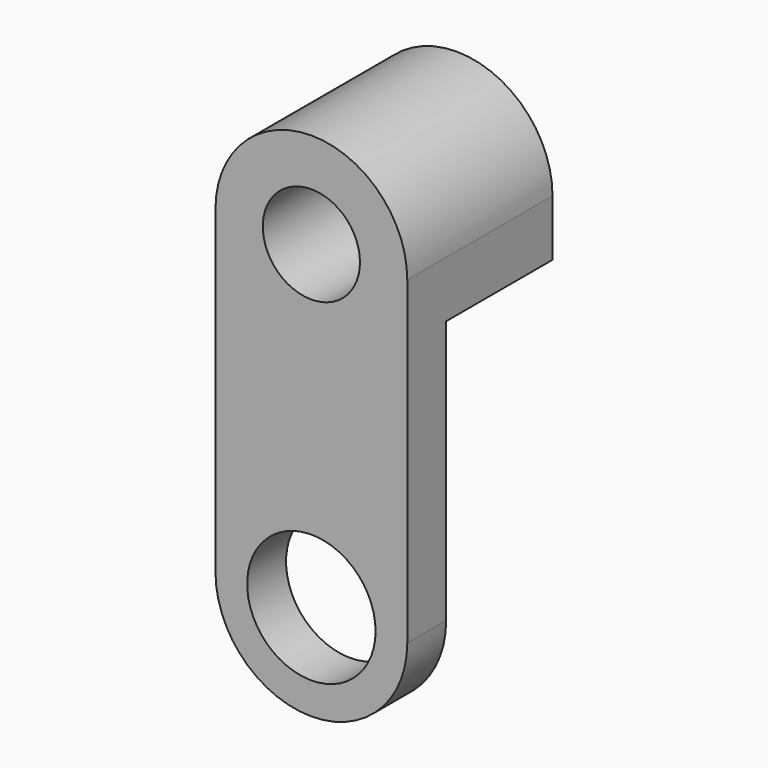
from build123d import *

# Parameters (mm, degrees)
F0_R     = 2.413
F0_R_2   = 3.1877
F1_DEPTH = 9.017
F2_W     = 16.336124
F2_H     = 18.51942
F3_DEPTH = 9.526


with BuildPart() as f1:
    # F0 (on Front) → F1 (new body)
    with BuildSketch(Plane.XZ):
        with BuildLine():
            ThreePointArc((-4.7625, 0), (0, -4.7625), (4.7625, 0))
            ThreePointArc((4.7625, 0), (0, 4.7625), (-4.7625, 0))
        make_face()
        Circle(F0_R, mode=Mode.SUBTRACT)
        with BuildLine():
            Line((4.7625, -15.875), (4.7625, 0))
            ThreePointArc((4.7625, 0), (0, -4.7625), (-4.7625, 0))
            Line((-4.7625, 0), (-4.7625, -15.875))
            ThreePointArc((-4.7625, -15.875), (0, -11.1125), (4.7625, -15.875))
        make_face()
        with BuildLine():
            ThreePointArc((-4.7625, -15.875), (0, -20.6375), (4.7625, -15.875))
            ThreePointArc((4.7625, -15.875), (0, -11.1125), (-4.7625, -15.875))
        make_face()
        with Locations((0, -15.875)):
            Circle(F0_R_2, mode=Mode.SUBTRACT)
    extrude(amount=F1_DEPTH)

    # F2 (on face) → F3 (cut, through all)
    with BuildSketch(Plane.YZ.offset(4.7625)):
        with Locations((1.564062, -12.05371)):
            Rectangle(F2_W, F2_H)
    extrude(amount=-F3_DEPTH, mode=Mode.SUBTRACT)


solid = f1.part
